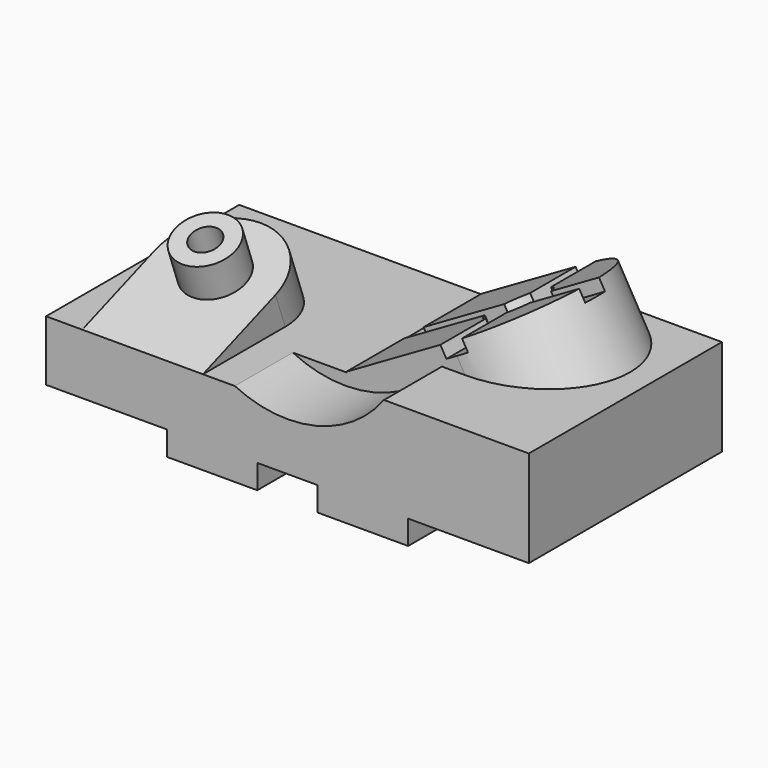
from build123d import *

# Parameters (mm, degrees)
F1_DEPTH  = 100
F4_DEPTH  = 25
F5_R      = 12.5
F5_R_2    = 6
F6_DEPTH  = 15
F11_R     = 7.5
F12_DEPTH = 80.3118891325
F14_DEPTH = 5
F15_W     = 30
F15_H     = 15
F16_DEPTH = 25
F17_R     = 50
F18_DEPTH = 30


with BuildPart() as f1:
    # F0 (on Front) → F1 (new body)
    with BuildSketch(Plane.XZ):
        Polygon((92.2171346843, -3.7963638455), (32.2171346843, -3.7963638455), (32.2171346843, -18.7963638455), (-107.7828653157, -18.7963638455), (-107.7828653157, -43.7963638455), (-57.7828653157, -43.7963638455), (-57.7828653157, -53.7963638455), (-20.2828653157, -53.7963638455), (-20.2828653157, -43.7963638455), (4.7171346843, -43.7963638455), (4.7171346843, -53.7963638455), (42.2171346843, -53.7963638455), (42.2171346843, -43.7963638455), (92.2171346843, -43.7963638455), align=None)
    extrude(amount=-F1_DEPTH)

    # F9 (on line) → F10 (join, up to the next surface of F1)
    with BuildSketch(Plane(origin=(6.1933479656, 0, -10.7271933453), x_dir=(0.8660254038, 0, 0.5), z_dir=(0.5, 0, -0.8660254038))):
        with BuildLine():
            Line((-15.679365024, -30), (-15.679365024, -100))
            Line((-15.679365024, -100), (34.320634976, -100))
            ThreePointArc((34.320634976, -100), (69.320634976, -65), (34.320634976, -30))
            Line((34.320634976, -30), (-15.679365024, -30))
        make_face()
    extrude(until=Until.NEXT)

    # F11 (on face) → F12 (cut, through all)
    with BuildSketch(Plane(origin=(6.1933479656, 0, -10.7271933453), x_dir=(0.8660254038, 0, 0.5), z_dir=(-0.5, 0, 0.8660254038))):
        with Locations((34.320634976, 65)):
            Circle(F11_R)
    extrude(amount=-F12_DEPTH, mode=Mode.SUBTRACT)

    # F13 (on face) → F14 (cut)
    with BuildSketch(Plane(origin=(6.1933479656, 0, -10.7271933453), x_dir=(0.8660254038, 0, 0.5), z_dir=(-0.5, 0, 0.8660254038))):
        with BuildLine():
            Line((39.320634976, 26.4404322952), (39.320634976, 53.5435607626))
            ThreePointArc((39.320634976, 53.5435607626), (42.8025598424, 55.818118354), (45.3455064204, 59.1091418592))
            Line((45.3455064204, 59.1091418592), (72.9986197077, 59.1091418592))
            Line((72.9986197077, 59.1091418592), (73.2159018517, 69.1091418266))
            Line((73.2159018517, 69.1091418266), (46.1259284264, 69.1091418266))
            ThreePointArc((46.1259284264, 69.1091418266), (43.4912492847, 73.4941057917), (39.320634976, 76.4564392374))
            Line((39.320634976, 76.4564392374), (39.320634976, 103.0133664608))
            Line((39.320634976, 103.0133664608), (29.320634976, 103.0133664608))
            Line((29.320634976, 103.0133664608), (29.320634976, 76.4564392374))
            ThreePointArc((29.320634976, 76.4564392374), (25.4818002112, 73.8388347648), (22.8641957386, 70))
            Line((22.8641957386, 70), (-15.679365024, 70))
            Line((-15.679365024, 70), (-15.679365024, 60))
            Line((-15.679365024, 60), (22.8641957386, 60))
            ThreePointArc((22.8641957386, 60), (25.4818002112, 56.1611652352), (29.320634976, 53.5435607626))
            Line((29.320634976, 53.5435607626), (29.320634976, 26.4404322952))
            Line((29.320634976, 26.4404322952), (39.320634976, 26.4404322952))
        make_face()
    extrude(amount=-F14_DEPTH, mode=Mode.SUBTRACT)

    # F15 (on face) → F16 (join)
    with BuildSketch(Plane(origin=(32.2171346843, 0, 0), x_dir=(0, -1, 0), z_dir=(-1, 0, 0))):
        with Locations((-15, -11.2963638455)):
            Rectangle(F15_W, F15_H)
    extrude(amount=F16_DEPTH)

    # F17 (on face) → F18 (cut, through all)
    with BuildSketch(Plane.XZ):
        with Locations((-7.7828653157, 26.2036361545)):
            Circle(F17_R)
    extrude(amount=-F18_DEPTH, mode=Mode.SUBTRACT)


with BuildPart() as f4:
    # F3 (on face) → F4 (new body)
    with BuildSketch(Plane(origin=(0, 6.0410348935, -16.5976069601), x_dir=(1, 0, 0), z_dir=(0, -0.3420201433, 0.9396926208))):
        with BuildLine():
            Line((-92.7828653157, 33.5712649436), (-92.7828653157, -6.4287350564))
            Line((-92.7828653157, -6.4287350564), (-42.7828653157, -6.4287350564))
            Line((-42.7828653157, -6.4287350564), (-42.7828653157, 33.5712649436))
            ThreePointArc((-42.7828653157, 33.5712649436), (-67.7828653157, 58.5712649436), (-92.7828653157, 33.5712649436))
        make_face()
    extrude(amount=-F4_DEPTH)

    # F5 (on face) → F6 (join)
    with BuildSketch(Plane(origin=(0, 6.0410348935, -16.5976069601), x_dir=(1, 0, 0), z_dir=(0, -0.3420201433, 0.9396926208))):
        with Locations((-67.7828653157, 33.5712649436)):
            Circle(F5_R)
        with Locations((-67.7828653157, 33.5712649436)):
            Circle(F5_R_2, mode=Mode.SUBTRACT)
    extrude(amount=F6_DEPTH)


solid = Compound([f1.part, f4.part])
